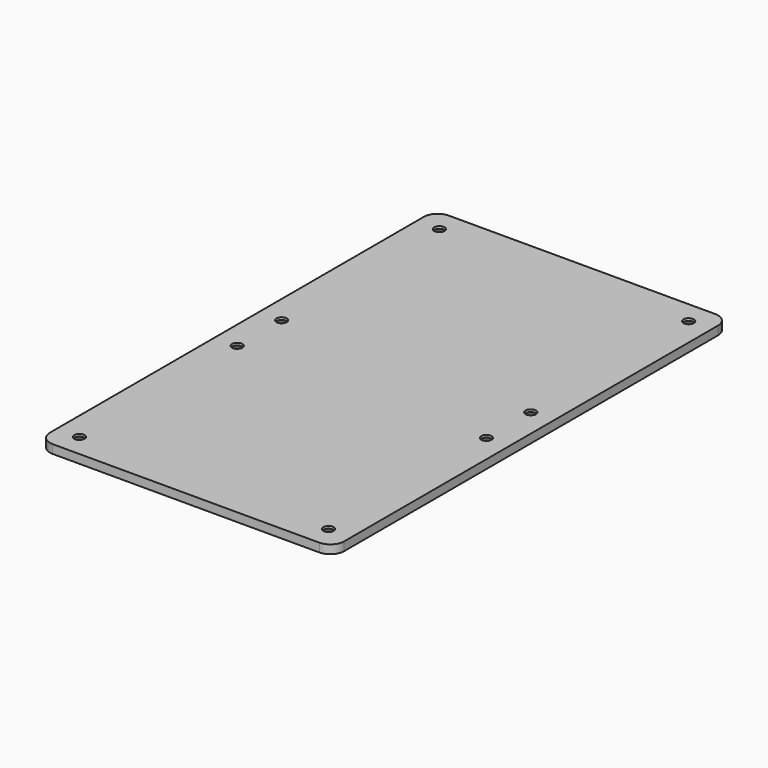
from build123d import *

# Parameters (mm, degrees)
F0_W           = 107.95
F0_H           = 181.61
F1_DEPTH       = 3.175
F3_D           = 3.7973
F3_CSINK_D     = 7.7978
F3_CSINK_ANGLE = 82
F4_R           = 5.08
F5_W           = 12.7
F5_H           = 12.7
F6_DEPTH       = 0.127


with BuildPart() as f1:
    # F0 (on Top) → F1 (new body)
    with BuildSketch(Plane.XY):
        with Locations((53.975, 90.805)):
            Rectangle(F0_W, F0_H)
    extrude(amount=F1_DEPTH)

    # F3 (through all)
    with Locations(Plane(origin=(0, 0, 0), x_dir=(1, 0, 0), z_dir=(0, 0, -1))):
        with Locations((8.255, -8.255), (99.695, -8.255), (99.695, -80.645), (8.255, -80.645), (8.255, -100.965), (8.255, -173.355), (99.695, -173.355), (99.695, -100.965)):
            CounterSinkHole(F3_D / 2, F3_CSINK_D / 2, counter_sink_angle=F3_CSINK_ANGLE)

    # F4
    f4_edges = [f1.edges().sort_by_distance(p)[0] for p in [
        (0, 0, 1.5875),
        (107.95, 0, 1.5875),
        (107.95, 181.61, 1.5875),
        (0, 181.61, 1.5875),
    ]]
    fillet(f4_edges, radius=F4_R)

    # F5 (on face) → F6 (cut)
    with BuildSketch(Plane(origin=(0, 0, 0), x_dir=(1, 0, 0), z_dir=(0, 0, -1))):
        with Locations((19.05, -19.05)):
            Rectangle(F5_W, F5_H)
        with Locations((88.9, -19.05)):
            Rectangle(F5_W, F5_H)
        with Locations((19.05, -162.56)):
            Rectangle(F5_W, F5_H)
        with Locations((88.9, -162.56)):
            Rectangle(F5_W, F5_H)
    extrude(amount=-F6_DEPTH, mode=Mode.SUBTRACT)


solid = f1.part
